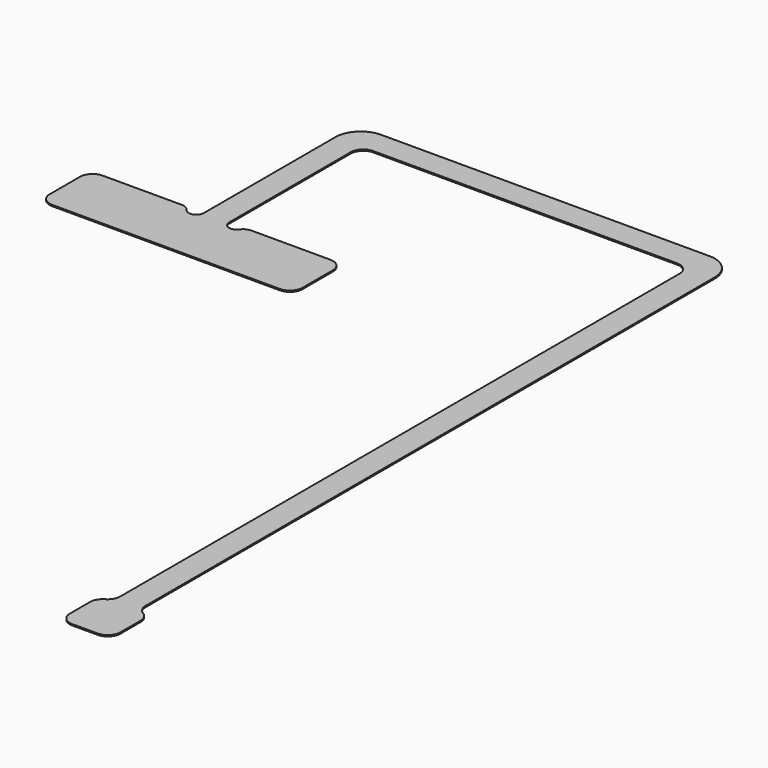
from build123d import *

# Parameters (mm, degrees)
F1_DEPTH = 0.127


with BuildPart() as f1:
    # F0 (on Top) → F1 (new body)
    with BuildSketch(Plane.XY):
        with BuildLine():
            ThreePointArc((0, 1.27), (0.371974, 0.371974), (1.27, 0))
            Line((1.27, 0), (24.13, 0))
            ThreePointArc((24.13, 0), (25.028026, 0.371974), (25.4, 1.27))
            Line((25.4, 1.27), (25.4, 5.08))
            ThreePointArc((25.4, 5.08), (25.028026, 5.978026), (24.13, 6.35))
            Line((24.13, 6.35), (16.191119, 6.35))
            ThreePointArc((16.191119, 6.35), (15.720802, 6.234588), (15.357337, 5.914571))
            ThreePointArc((15.357337, 5.914571), (14.503814, 5.622968), (13.97, 6.35))
            Line((13.97, 6.35), (13.97, 21.59))
            ThreePointArc((13.97, 21.59), (14.341974, 22.488026), (15.24, 22.86))
            Line((15.24, 22.86), (45.72, 22.86))
            ThreePointArc((45.72, 22.86), (46.618026, 22.488026), (46.99, 21.59))
            Line((46.99, 21.59), (46.99, -48.600295))
            ThreePointArc((46.99, -48.600295), (46.819852, -49.235295), (46.355, -49.700148))
            ThreePointArc((46.355, -49.700148), (45.890148, -50.165), (45.72, -50.8))
            Line((45.72, -50.8), (45.72, -53.34))
            ThreePointArc((45.72, -53.34), (46.091974, -54.238026), (46.99, -54.61))
            Line((46.99, -54.61), (49.53, -54.61))
            ThreePointArc((49.53, -54.61), (50.428026, -54.238026), (50.8, -53.34))
            Line((50.8, -53.34), (50.8, -50.8))
            ThreePointArc((50.8, -50.8), (50.629852, -50.165), (50.165, -49.700148))
            ThreePointArc((50.165, -49.700148), (49.700148, -49.235295), (49.53, -48.600295))
            Line((49.53, -48.600295), (49.53, 22.86))
            ThreePointArc((49.53, 22.86), (48.786051, 24.656051), (46.99, 25.4))
            Line((46.99, 25.4), (13.97, 25.4))
            ThreePointArc((13.97, 25.4), (12.173949, 24.656051), (11.43, 22.86))
            Line((11.43, 22.86), (11.43, 6.35))
            ThreePointArc((11.43, 6.35), (10.896186, 5.622968), (10.042663, 5.914571))
            ThreePointArc((10.042663, 5.914571), (9.679198, 6.234588), (9.208881, 6.35))
            Line((9.208881, 6.35), (1.27, 6.35))
            ThreePointArc((1.27, 6.35), (0.371974, 5.978026), (0, 5.08))
            Line((0, 5.08), (0, 1.27))
        make_face()
    extrude(amount=F1_DEPTH)


solid = f1.part
